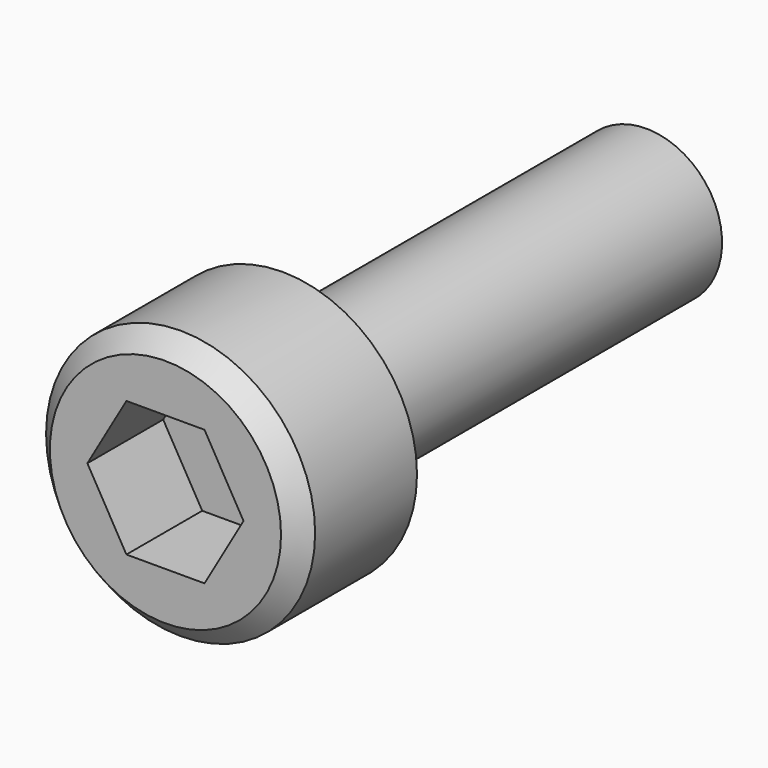
from build123d import *

# Parameters (mm, degrees)
F0_R     = 3.55
F1_DEPTH = 3.86
F3_DEPTH = 2.5
F4_R     = 2
F5_DEPTH = 12
F6_SIZE  = 0.5


with BuildPart() as f1:
    # F0 (on Front) → F1 (new body)
    with BuildSketch(Plane.XZ):
        Circle(F0_R)
    extrude(amount=F1_DEPTH)

    # F2 (on face) → F3 (cut)
    with BuildSketch(Plane.XZ.offset(3.86)):
        Polygon((-1.030145, -1.784263), (1.030145, -1.784263), (2.060289, 0), (1.030145, 1.784263), (-1.030145, 1.784263), (-2.060289, 0), align=None)
    extrude(amount=-F3_DEPTH, mode=Mode.SUBTRACT)

    # F4 (on face) → F5 (join)
    with BuildSketch(Plane(origin=(0, 0, 0), x_dir=(-1, 0, 0), z_dir=(0, 1, 0))):
        Circle(F4_R)
    extrude(amount=F5_DEPTH)

    # F6
    f6_edges = [f1.edges().sort_by_distance(p)[0] for p in [
        (-3.55, -3.86, 0),
    ]]
    chamfer(f6_edges, length=F6_SIZE)


solid = f1.part
